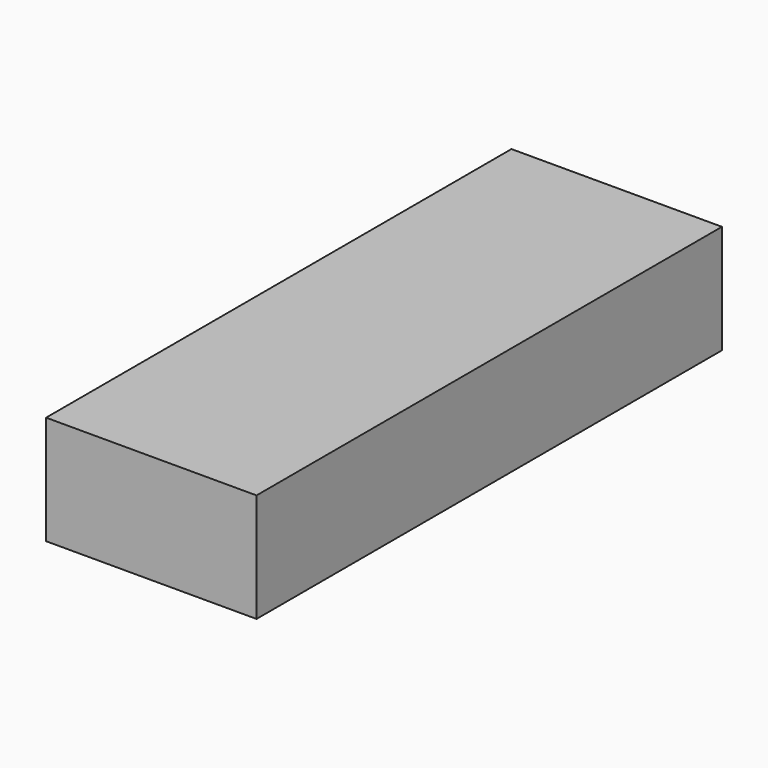
from build123d import *

# Parameters (mm, degrees)
F1_W     = 22.25
F1_H     = 61.5
F2_DEPTH = 11.5


with BuildPart() as f2:
    # F1 (on offset) → F2 (new body)
    with BuildSketch(Plane.XY.offset(12.45)):
        with Locations((6, 0)):
            Rectangle(F1_W, F1_H)
    extrude(amount=F2_DEPTH)


solid = f2.part
